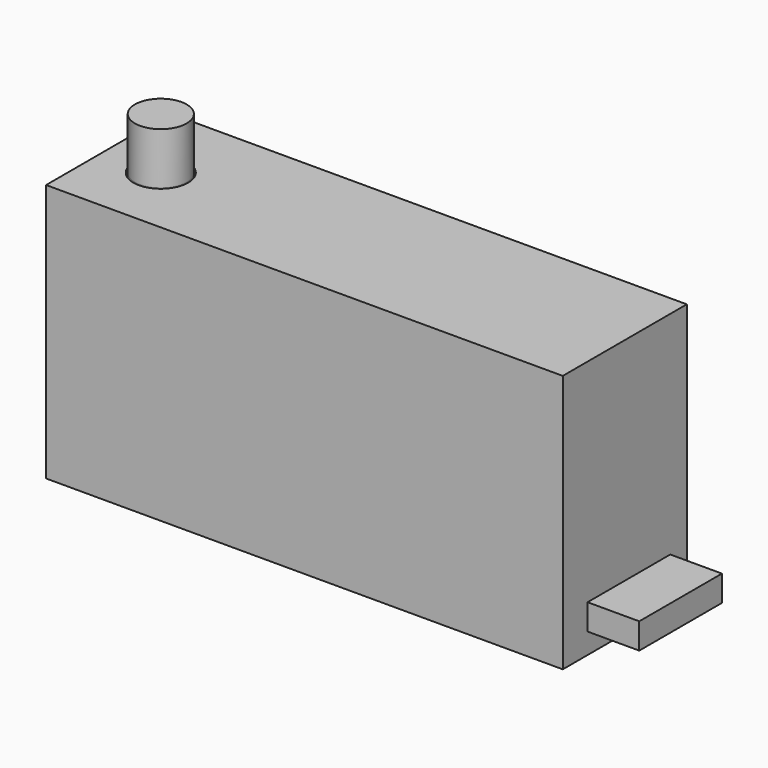
from build123d import *

# Parameters (mm, degrees)
BOX_W        = 1000
BOX_H        = 300
BOX_DEPTH    = 500
SKETCH001_R  = 50
PAD_DEPTH    = 100
BOX001_W     = 100
BOX001_H     = 200
BOX001_DEPTH = 50


with BuildPart() as body:
    # Sketch → Revolution (revolve)
    with BuildSketch(Plane.XZ):
        with BuildLine():
            Line((-50, 649.259148), (-50, 150))
            ThreePointArc((-51.149586, 145.344876), (-50.29165, 147.602515), (-50, 150))
            Line((-51.149586, 145.344876), (-75, 100))
            Line((-75, 100), (-78, 100))
            Line((-78, 100), (-53.804711, 146.000561))
            ThreePointArc((-53.804711, 146.000561), (-53.204155, 147.580909), (-53, 149.259148))
            Line((-53, 149.259148), (-53, 649.259148))
            Line((-53, 649.259148), (-50, 649.259148))
        make_face()
    revolve(axis=Axis((0, 0, 0), (0, 0, 1)))


with BuildPart() as body001:
    # Box → Box (new body)
    with BuildSketch(Plane(origin=(-110, -140, 0), x_dir=(1, 0, 0), z_dir=(0, 0, 1))):
        with Locations((500, 150)):
            Rectangle(BOX_W, BOX_H)
    extrude(amount=BOX_DEPTH)

    # Cut: cut Body
    add(body.part, mode=Mode.SUBTRACT)

    # Sketch001 (on Face14 of BaseFeature) → Pad (new body)
    with BuildSketch(Plane.XY.offset(500)):
        Circle(SKETCH001_R)
    extrude(amount=PAD_DEPTH)


with BuildPart() as box001:
    # Box001 → Box001 (new body)
    with BuildSketch(Plane(origin=(890, -80, 40), x_dir=(1, 0, 0), z_dir=(0, 0, 1))):
        with Locations((50, 100)):
            Rectangle(BOX001_W, BOX001_H)
    extrude(amount=BOX001_DEPTH)


solid = Compound([body001.part, box001.part])
